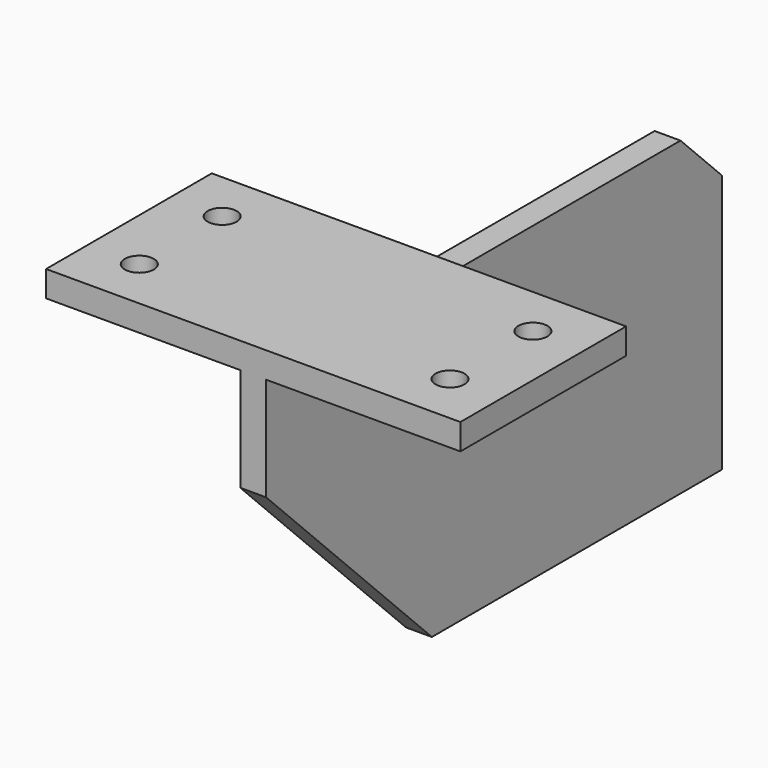
from build123d import *

# Parameters (mm, degrees)
F0_W     = 203.2
F0_H     = 101.6
F0_R     = 7.112
F1_DEPTH = 12.7
F2_W     = 12.7
F2_H     = 279.4
F3_DEPTH = 152.4
F4_SIZE  = 101.6
F5_SIZE  = 25.4


with BuildPart() as f1:
    # F0 (on Top) → F1 (new body)
    with BuildSketch(Plane.XY):
        Rectangle(F0_W, F0_H)
        with Locations((-76.2, -25.4)):
            Circle(F0_R, mode=Mode.SUBTRACT)
        with Locations((76.2, -25.4)):
            Circle(F0_R, mode=Mode.SUBTRACT)
        with Locations((-76.2, 25.4)):
            Circle(F0_R, mode=Mode.SUBTRACT)
        with Locations((76.2, 25.4)):
            Circle(F0_R, mode=Mode.SUBTRACT)
    extrude(amount=F1_DEPTH)

    # F2 (on face) → F3 (join)
    with BuildSketch(Plane(origin=(0, 0, 0), x_dir=(1, 0, 0), z_dir=(0, 0, -1))):
        with Locations((0, -88.9)):
            Rectangle(F2_W, F2_H)
    extrude(amount=F3_DEPTH)

    # F4
    f4_edges = [f1.edges().sort_by_distance(p)[0] for p in [
        (0, -50.8, -152.4),
    ]]
    chamfer(f4_edges, length=F4_SIZE)

    # F5
    f5_edges = [f1.edges().sort_by_distance(p)[0] for p in [
        (0, 228.6, 0),
    ]]
    chamfer(f5_edges, length=F5_SIZE)


solid = f1.part
